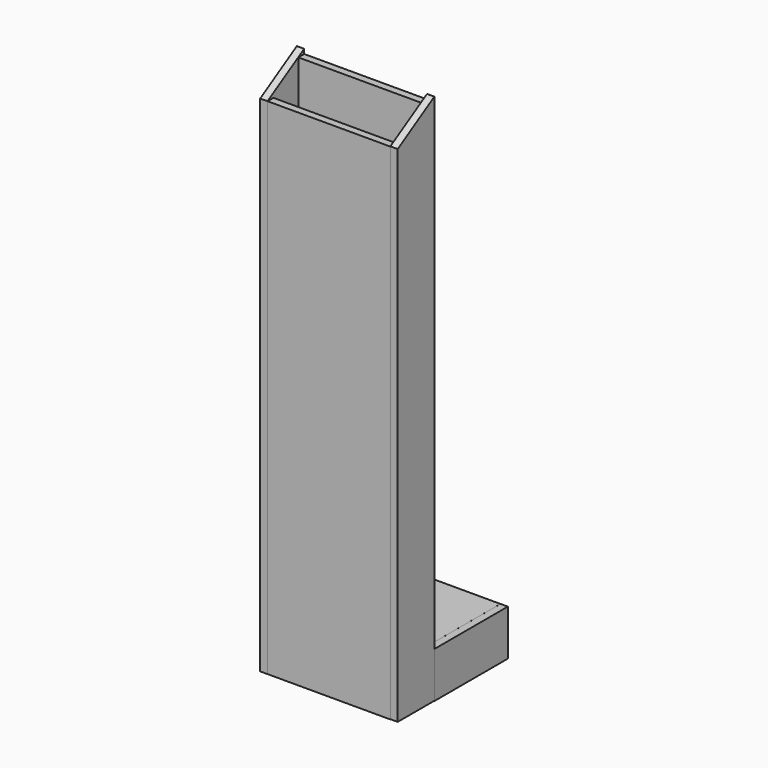
from build123d import *

# Parameters (mm, degrees)
F1_W      = 268
F1_H      = 1100
F2_DEPTH  = 16
F4_W      = 268
F4_H      = 1066
F5_DEPTH  = 16
F7_W      = 100
F7_H      = 1160
F8_DEPTH  = 16
F10_W     = 100
F10_H     = 1160
F11_DEPTH = 16
F26_SIZE2 = 99.856768941
F26_SIZE  = 60
F27_SIZE2 = 99.856768941
F27_SIZE  = 60
F30_W     = 200
F30_H     = 100
F31_DEPTH = 16
F35_W     = 200
F35_H     = 100
F36_DEPTH = 16
F40_W     = 268
F40_H     = 200
F41_DEPTH = 16
F45_W     = 268
F45_H     = 84
F46_DEPTH = 16


with BuildPart() as f2:
    # F1 (on offset) → F2 (new body)
    with BuildSketch(Plane.XZ.offset(100)):
        Rectangle(F1_W, F1_H)
    extrude(amount=F2_DEPTH)


with BuildPart() as f5:
    # F4 (on offset) → F5 (new body)
    with BuildSketch(Plane.XZ.offset(-100)):
        Rectangle(F4_W, F4_H)
    extrude(amount=F5_DEPTH)


with BuildPart() as f8:
    # F7 (on offset) → F8 (new body)
    with BuildSketch(Plane.YZ.offset(100)):
        with Locations((32.3451906443, 503.5529075972)):
            Rectangle(F7_W, F7_H)
    extrude(amount=F8_DEPTH)


with BuildPart() as f11:
    # F10 (on offset) → F11 (new body)
    with BuildSketch(Plane.YZ.offset(-100)):
        Rectangle(F10_W, F10_H)
    extrude(amount=F11_DEPTH)


with BuildPart() as f2_1:
    # F12: moved
    add(f2.part.moved(Location((0, 50, 0))))


with BuildPart() as f5_1:
    # F13: moved
    add(f5.part.moved(Location((0, -33.8, 0))))


with BuildPart() as f11_1:
    # F14: moved
    add(f11.part.moved(Location((-50, 0, 0))))


with BuildPart() as f8_1:
    # F15: moved
    add(f8.part.moved(Location((34, -32.4, 0))))


with BuildPart() as f8_2:
    # F16: moved
    add(f8_1.part.moved(Location((0, 0, -473))))


with BuildPart() as f11_2:
    # F17: moved
    add(f11_1.part.moved(Location((16, 0, 0))))


with BuildPart() as f8_3:
    # F18: moved
    add(f8_2.part.moved(Location((-16, 0, 0))))


with BuildPart() as f11_3:
    # F19: moved
    add(f11_2.part.moved(Location((0, 0, 30))))


with BuildPart() as f8_4:
    # F20: moved
    add(f8_3.part.moved(Location((16, 0, 0))))

    # F27
    f27_edges = [f8_4.edges().sort_by_distance(p)[0] for p in [
        (142, -50.054809, 610.552908),
    ]]
    f27_side = f8_4.faces().sort_by_distance((142, -50.054809, 30.552908))[0]
    chamfer(f27_edges, length=F27_SIZE, length2=F27_SIZE2, reference=f27_side)


with BuildPart() as f11_4:
    # F21: moved
    add(f11_3.part.moved(Location((-16, 0, 0))))

    # F26
    f26_edges = [f11_4.edges().sort_by_distance(p)[0] for p in [
        (-142, -50, 610),
    ]]
    f26_side = f11_4.faces().sort_by_distance((-142, -50, 30))[0]
    chamfer(f26_edges, length=F26_SIZE, length2=F26_SIZE2, reference=f26_side)


with BuildPart() as f5_2:
    # F22: moved
    add(f5_1.part.moved(Location((0, -16, 0))))


with BuildPart() as f5_3:
    # F23: moved
    add(f5_2.part)


with BuildPart() as f2_2:
    # F24: moved
    add(f2_1.part.moved(Location((0, 16, 0))))


with BuildPart() as f5_4:
    # F25: moved
    add(f5_3.part.moved(Location((0, -0.2, 0))))


with BuildPart() as f5_5:
    # F28: moved
    add(f5_4.part.moved(Location((0, 0, 66))))


with BuildPart() as f31:
    # F30 (on offset) → F31 (new body)
    with BuildSketch(Plane.YZ.offset(-200)):
        Rectangle(F30_W, F30_H)
    extrude(amount=F31_DEPTH)


with BuildPart() as f31_1:
    # F32: moved
    add(f31.part.moved(Location((0, 150.1, -500))))


with BuildPart() as f31_2:
    # F33: moved
    add(f31_1.part.moved(Location((50, 0, 0))))


with BuildPart() as f36:
    # F35 (on offset) → F36 (new body)
    with BuildSketch(Plane.YZ.offset(200)):
        with Locations((-24.7030071914, -0.4359617175)):
            Rectangle(F35_W, F35_H)
    extrude(amount=F36_DEPTH)


with BuildPart() as f36_1:
    # F37: moved
    add(f36.part.moved(Location((0, 174.8, -499.6))))


with BuildPart() as f36_2:
    # F38: moved
    add(f36_1.part.moved(Location((-66, 0, 0))))


with BuildPart() as f41:
    # F40 (on offset) → F41 (new body)
    with BuildSketch(Plane.XY.offset(-500)):
        with Locations((0, 149.9369370198)):
            Rectangle(F40_W, F40_H)
    extrude(amount=F41_DEPTH)


with BuildPart() as f41_1:
    # F42: moved
    add(f41.part.moved(Location((0, 0, 34))))


with BuildPart() as f5_6:
    # F43: moved
    add(f5_5.part.moved(Location((0, 0, 1))))


with BuildPart() as f46:
    # F45 (on offset) → F46 (new body)
    with BuildSketch(Plane.XZ.offset(-200)):
        Rectangle(F45_W, F45_H)
    extrude(amount=F46_DEPTH)


with BuildPart() as f46_1:
    # F47: moved
    add(f46.part.moved(Location((0, 50, -508))))


solid = Compound([f8_4.part, f11_4.part, f2_2.part, f31_2.part, f36_2.part, f41_1.part, f5_6.part, f46_1.part])
